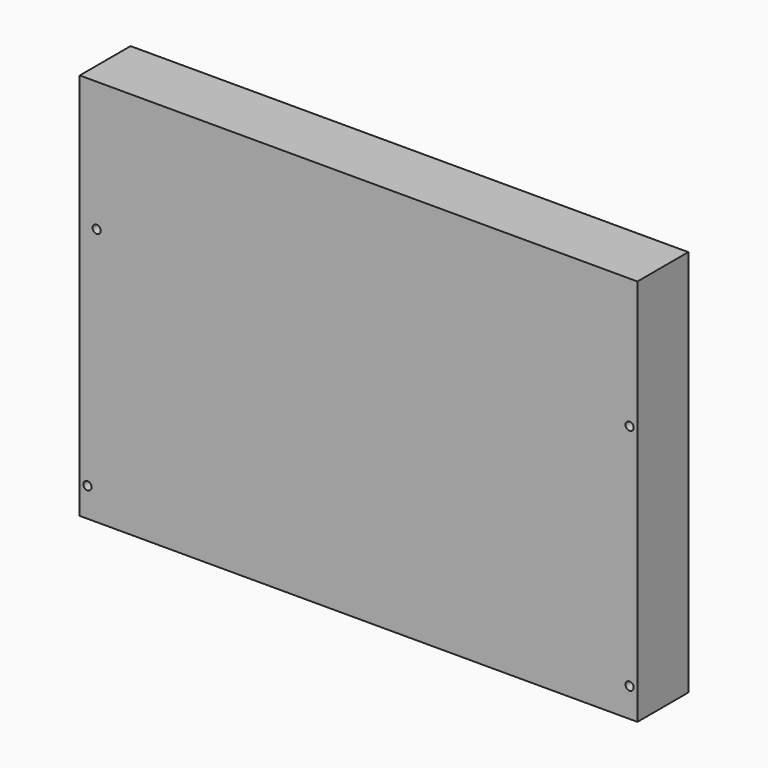
from build123d import *

# Parameters (mm, degrees)
F0_R     = 1.6383
F1_DEPTH = 25.4


with BuildPart() as f1:
    # F0 (on Front) → F1 (new body)
    with BuildSketch(Plane.XZ):
        Polygon((-77.601977, 11.6078), (-77.601977, 0), (145.257623, 0), (145.257623, 154.94), (-77.601977, 154.94), align=None)
        with BuildLine():
            ThreePointArc((-72.864775, 11.6078), (-74.503075, 9.9695), (-76.141375, 11.6078))
            ThreePointArc((-76.141375, 11.6078), (-74.503075, 13.2461), (-72.864775, 11.6078))
        make_face(mode=Mode.SUBTRACT)
        with Locations((142.141186, 11.597934)):
            Circle(F0_R, mode=Mode.SUBTRACT)
        with Locations((-70.824926, 103.015933)):
            Circle(F0_R, mode=Mode.SUBTRACT)
        with Locations((142.129337, 103.022496)):
            Circle(F0_R, mode=Mode.SUBTRACT)
    extrude(amount=F1_DEPTH)


solid = f1.part
